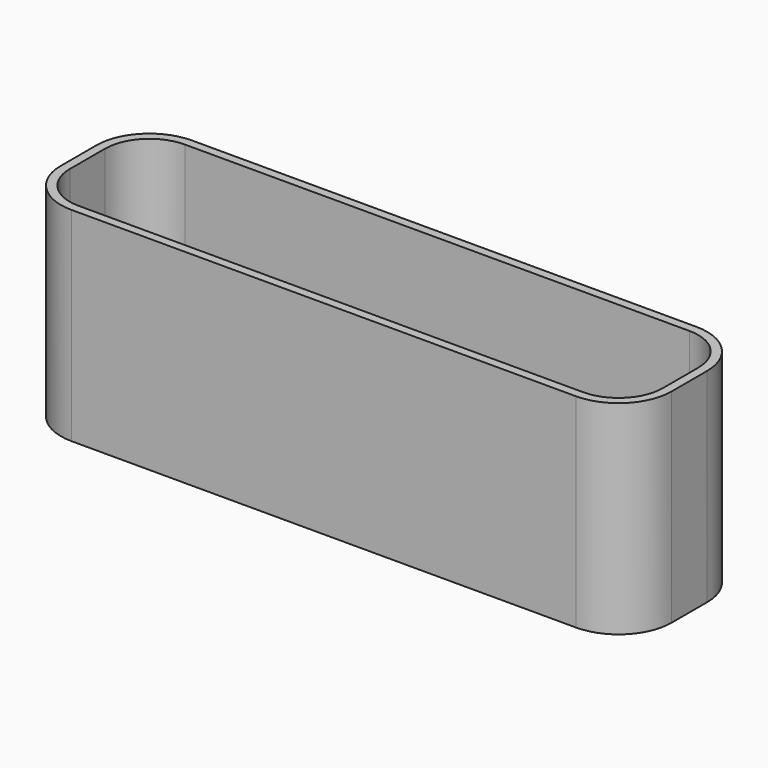
from build123d import *

# Parameters (mm, degrees)
PAD_DEPTH = 23


with BuildPart() as part:
    # Sketch → Pad (new body)
    with BuildSketch(Plane.XY):
        with BuildLine():
            ThreePointArc((-63, 17), (-67.242641, 15.242641), (-69, 11))
            Line((-69, 6), (-69, 11))
            ThreePointArc((-69, 6), (-67.242641, 1.757359), (-63, 0))
            Line((-6, 0), (-63, 0))
            ThreePointArc((-6, 0), (-1.757359, 1.757359), (0, 6))
            Line((0, 11), (0, 6))
            ThreePointArc((0, 11), (-1.757359, 15.242641), (-6, 17))
            Line((-63, 17), (-6, 17))
        make_face()
        with BuildLine():
            ThreePointArc((-63, 16), (-66.535534, 14.535534), (-68, 11))
            Line((-68, 6), (-68, 11))
            ThreePointArc((-68, 6), (-66.535534, 2.464466), (-63, 1))
            Line((-6, 1), (-63, 1))
            ThreePointArc((-6, 1), (-2.464466, 2.464466), (-1, 6))
            Line((-1, 11), (-1, 6))
            ThreePointArc((-1, 11), (-2.464466, 14.535534), (-6, 16))
            Line((-63, 16), (-6, 16))
        make_face(mode=Mode.SUBTRACT)
    extrude(amount=PAD_DEPTH)


solid = part.part
